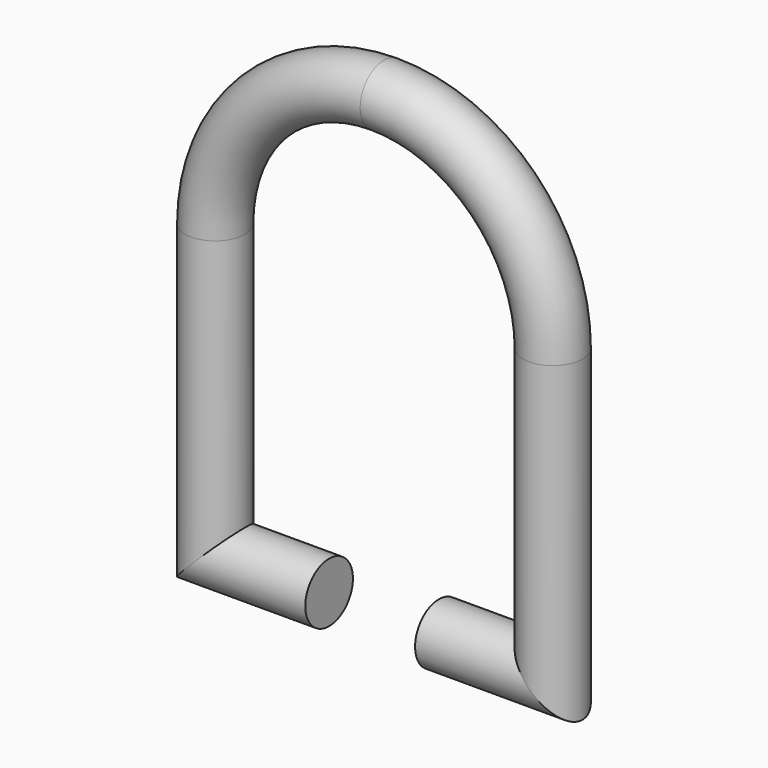
from build123d import *

# Parameters (mm, degrees)
F2_R = 7.5


with BuildPart() as f3:
    # F3: sweep along a path in F0
    with BuildLine(Plane.XZ) as f3_path:
        Line((13.8293646224, 0), (42.5, 0))
        Line((42.5, 0), (42.5, 72.5))
        ThreePointArc((42.5, 72.5), (30.0520382004, 102.5520382004), (0, 115))
        ThreePointArc((0, 115), (-30.0520382004, 102.5520382004), (-42.5, 72.5))
        Line((-42.5, 72.5), (-42.5, 0))
        Line((-42.5, 0), (-13.8293646224, 0))
    # F2 (on plane+point) → F3 (sweep)
    with BuildSketch(Plane.YZ.offset(-13.8293646224)):
        Circle(F2_R)
    sweep(path=f3_path.line, transition=Transition.RIGHT)


solid = f3.part
